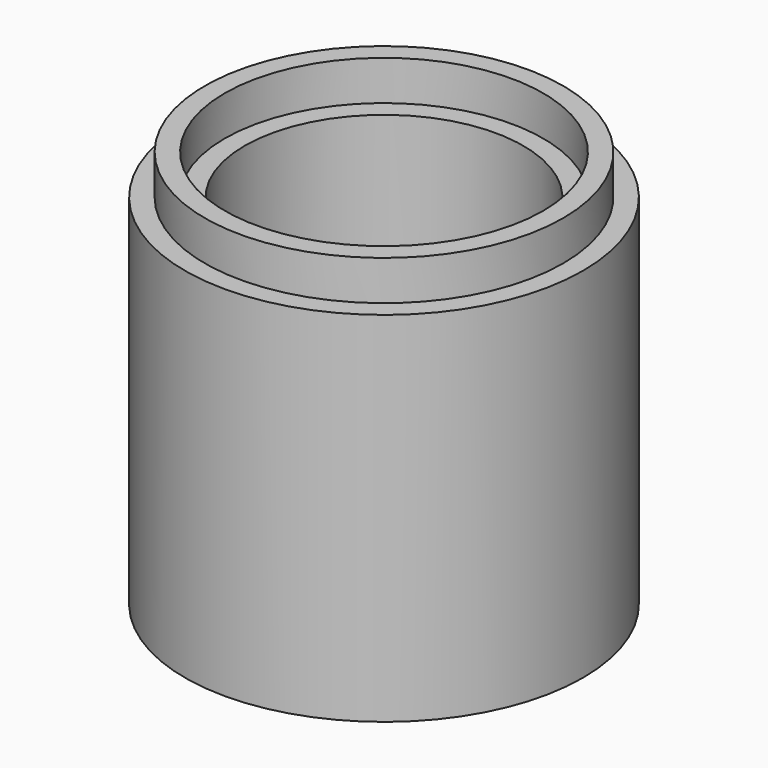
from build123d import *

# Parameters (mm, degrees)
F0_R     = 50
F0_R_2   = 45
F0_R_3   = 40
F0_R_4   = 35
F1_DEPTH = 90
F2_DEPTH = 100
F3_DEPTH = 10


with BuildPart() as f1:
    # F0 (on Top) → F1 (new body)
    with BuildSketch(Plane.XY):
        with Locations((-87.7033099532, -2.8714591172)):
            Circle(F0_R)
        with Locations((-87.7033099532, -2.8714591172)):
            Circle(F0_R_2, mode=Mode.SUBTRACT)
        with Locations((-87.7033099532, -2.8714591172)):
            Circle(F0_R_2)
        with Locations((-87.7033099532, -2.8714591172)):
            Circle(F0_R_3, mode=Mode.SUBTRACT)
        with Locations((-87.7033099532, -2.8714591172)):
            Circle(F0_R_3)
        with Locations((-87.7033099532, -2.8714591172)):
            Circle(F0_R_4, mode=Mode.SUBTRACT)
    extrude(amount=F1_DEPTH)

    # F0 (on Top) → F2 (join)
    with BuildSketch(Plane.XY):
        with Locations((-87.7033099532, -2.8714591172)):
            Circle(F0_R_2)
        with Locations((-87.7033099532, -2.8714591172)):
            Circle(F0_R_3, mode=Mode.SUBTRACT)
    extrude(amount=F2_DEPTH)

    # F0 (on Top) → F3 (cut)
    with BuildSketch(Plane.XY):
        with Locations((-87.7033099532, -2.8714591172)):
            Circle(F0_R_2)
        with Locations((-87.7033099532, -2.8714591172)):
            Circle(F0_R_3, mode=Mode.SUBTRACT)
    extrude(amount=F3_DEPTH, mode=Mode.SUBTRACT)


solid = f1.part
